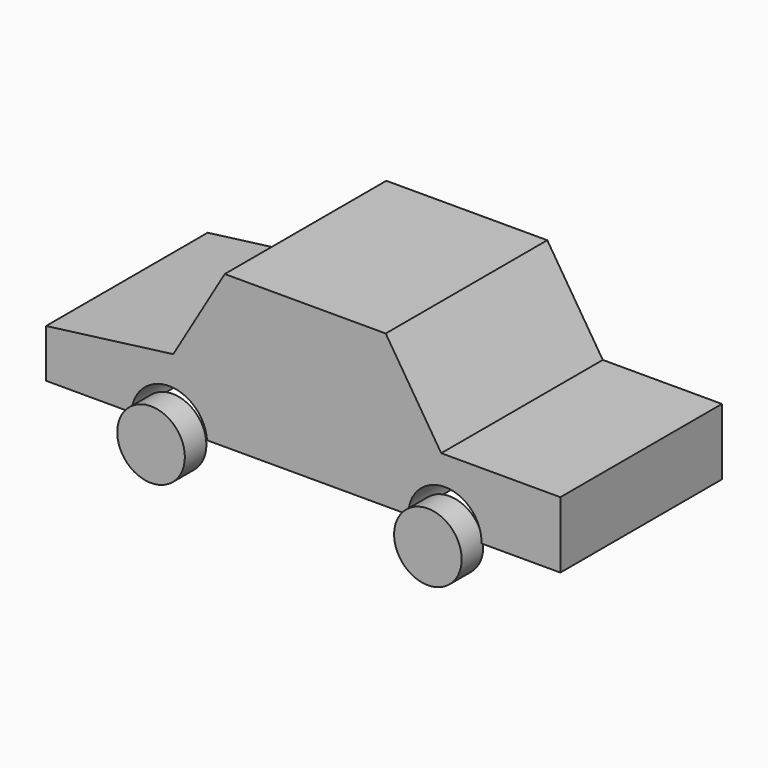
from build123d import *

# Parameters (mm, degrees)
F1_DEPTH      = 38.1
F1_DEPTH_BACK = 38.1
F3_START      = 36.322
F2_R          = 12.7566324115
F3_DEPTH      = 10.16
F2_R_2        = 12.7457855715
F5_START      = -34.544
F4_R          = 12.6795167038
F5_DEPTH      = 8.382
F4_R_2        = 12.3222708478


with BuildPart() as f1:
    # F0 (on Front) → F1 (new body, two sides)
    with BuildSketch(Plane.XZ) as f1_sk:
        with BuildLine():
            Line((-27.3278951645, 32.9452939332), (-46.7610619962, 0))
            Line((-46.7610619962, 0), (-94.7366952896, -6.2246867456))
            Line((-94.7366952896, -6.2246867456), (-94.7366952896, -24.4432818145))
            Line((-94.7366952896, -24.4432818145), (-62.5505149364, -24.4432818145))
            ThreePointArc((-62.5505149364, -24.4432818145), (-48.279279843, -11.0797562121), (-34.0080447495, -24.4432818145))
            Line((-34.0080447495, -24.4432818145), (41.9027730823, -24.4432818145))
            ThreePointArc((41.9027730823, -24.4432818145), (56.0256108459, -10.775277267), (69.5343092084, -25.0505693257))
            Line((69.5343092084, -25.0505693257), (99.2913544178, -25.0505693257))
            Line((99.2913544178, -25.0505693257), (99.2913544178, 0))
            Line((99.2913544178, 0), (54.3521419168, 0))
            Line((54.3521419168, 0), (33.4007553756, 32.9452939332))
            Line((33.4007553756, 32.9452939332), (-27.3278951645, 32.9452939332))
        make_face()
    extrude(amount=F1_DEPTH)
    extrude(f1_sk.sketch, amount=-F1_DEPTH_BACK)


with BuildPart() as f3:
    # F2 (on Front) → F3 (new body)
    with BuildSketch(Plane.XZ.offset(F3_START)):
        with Locations((-48.4310947359, -27.176072821)):
            Circle(F2_R)
    extrude(amount=F3_DEPTH)


with BuildPart() as f3b:
    # F2 (on Front) → F3, piece 2 (new body)
    with BuildSketch(Plane.XZ.offset(F3_START)):
        with Locations((56.0221858323, -27.176072821)):
            Circle(F2_R_2)
    extrude(amount=F3_DEPTH)


with BuildPart() as f5:
    # F4 (on Front) → F5 (new body)
    with BuildSketch(Plane.XZ.offset(F5_START)):
        with Locations((56.0194589198, -27.3941215128)):
            Circle(F4_R)
    extrude(amount=-F5_DEPTH)


with BuildPart() as f5b:
    # F4 (on Front) → F5, piece 2 (new body)
    with BuildSketch(Plane.XZ.offset(F5_START)):
        with Locations((-48.411551863, -26.883456856)):
            Circle(F4_R_2)
    extrude(amount=-F5_DEPTH)


solid = Compound([f1.part, f3.part, f3b.part, f5.part, f5b.part])
